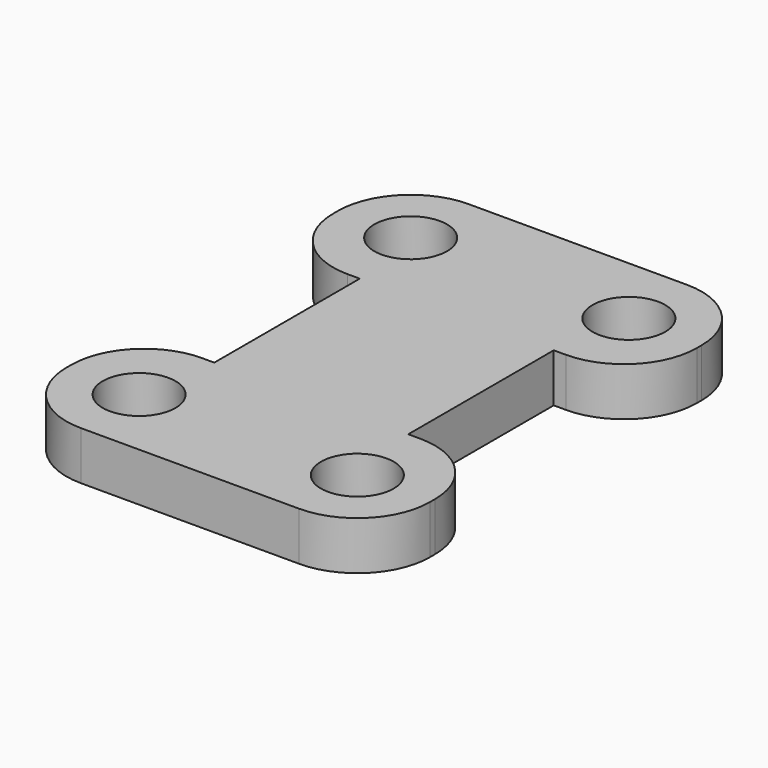
from build123d import *

# Parameters (mm, degrees)
CYLINDER702_R     = 1.5
CYLINDER702_DEPTH = 14
CYLINDER703_R     = 1.5
CYLINDER703_DEPTH = 14
CYLINDER705_R     = 1.5
CYLINDER705_DEPTH = 14
CYLINDER704_R     = 1.5
CYLINDER704_DEPTH = 14
BOX041_W          = 15
BOX041_H          = 7.5
BOX041_DEPTH      = 2
BOX040_W          = 15
BOX040_H          = 20
BOX040_DEPTH      = 2
FILLET001006_R    = 3
BOX042_W          = 8
BOX042_H          = 9
BOX042_DEPTH      = 2


with BuildPart() as cylinder772:
    # Cylinder702 → Cylinder702 (new body)
    with BuildSketch(Plane(origin=(-4.5, -50.5, -7), x_dir=(1, 0, 0), z_dir=(0, 0, 1))):
        Circle(CYLINDER702_R)
    extrude(amount=CYLINDER702_DEPTH)


with BuildPart() as fusion001005002004004005002010_body:
    # Cylinder703 → Cylinder703 (new body)
    with BuildSketch(Plane(origin=(4.5, -50.5, -7), x_dir=(1, 0, 0), z_dir=(0, 0, 1))):
        Circle(CYLINDER703_R)
    extrude(amount=CYLINDER703_DEPTH)

    # Fusion001005002004004005002010002003003003017007024009: union Cylinder772
    add(cylinder772.part)


with BuildPart() as fusion001005002004004005002010_body_1:
    # Fusion001005002004004005002010002003003003017007024009 placement: moved
    add(fusion001005002004004005002010_body.part.moved(Location((0, 4, -3))))


with BuildPart() as cylinder775:
    # Cylinder705 → Cylinder705 (new body)
    with BuildSketch(Plane(origin=(-4.5, -50.5, -7), x_dir=(1, 0, 0), z_dir=(0, 0, 1))):
        Circle(CYLINDER705_R)
    extrude(amount=CYLINDER705_DEPTH)


with BuildPart() as fusion001005002004004005002010_body2:
    # Cylinder704 → Cylinder704 (new body)
    with BuildSketch(Plane(origin=(4.5, -50.5, -7), x_dir=(1, 0, 0), z_dir=(0, 0, 1))):
        Circle(CYLINDER704_R)
    extrude(amount=CYLINDER704_DEPTH)

    # Fusion001005002004004005002010002003003003017007024011: union Cylinder775
    add(cylinder775.part)


with BuildPart() as fusion001005002004004005002010_body2_1:
    # Fusion001005002004004005002010002003003003017007024011 placement: moved
    add(fusion001005002004004005002010_body2.part.moved(Location((0, 18, -3))))

    # Fusion001005002004004005002010002003003003017007024010: union Fusion001005002004004005002010 body
    add(fusion001005002004004005002010_body_1.part)


with BuildPart() as cube041:
    # Box041 → Box041 (new body)
    with BuildSketch(Plane(origin=(-7.5, -43.25, -11), x_dir=(1, 0, 0), z_dir=(0, 0, 1))):
        with Locations((7.5, 3.75)):
            Rectangle(BOX041_W, BOX041_H)
    extrude(amount=BOX041_DEPTH)


with BuildPart() as fillet001006:
    # Box040 → Box040 (new body)
    with BuildSketch(Plane(origin=(-7.5, -49.5, -11), x_dir=(1, 0, 0), z_dir=(0, 0, 1))):
        with Locations((7.5, 10)):
            Rectangle(BOX040_W, BOX040_H)
    extrude(amount=BOX040_DEPTH)

    # Cut012027: cut Cube041
    add(cube041.part, mode=Mode.SUBTRACT)

    # Fillet001006
    fillet001006_edges = [fillet001006.edges().sort_by_distance(p)[0] for p in [
        (-7.5, -43.25, -10),
        (-7.5, -49.5, -10),
        (7.5, -43.25, -10),
        (7.5, -49.5, -10),
        (-7.5, -29.5, -10),
        (-7.5, -35.75, -10),
        (7.5, -29.5, -10),
        (7.5, -35.75, -10),
    ]]
    fillet(fillet001006_edges, radius=FILLET001006_R)


with BuildPart() as obj1:
    # Box042 → Box042 (new body)
    with BuildSketch(Plane(origin=(-4, -44, -11), x_dir=(1, 0, 0), z_dir=(0, 0, 1))):
        with Locations((4, 4.5)):
            Rectangle(BOX042_W, BOX042_H)
    extrude(amount=BOX042_DEPTH)

    # Fusion001005002004004005002010002003003003017007022: union Fillet001006
    add(fillet001006.part)


with BuildPart() as obj1_1:
    # Fusion001005002004004005002010002003003003017007022 placement: moved
    add(obj1.part.moved(Location((0, 0, 1))))

    # Cut012029: cut Fusion001005002004004005002010 body2
    add(fusion001005002004004005002010_body2_1.part, mode=Mode.SUBTRACT)


solid = obj1_1.part
